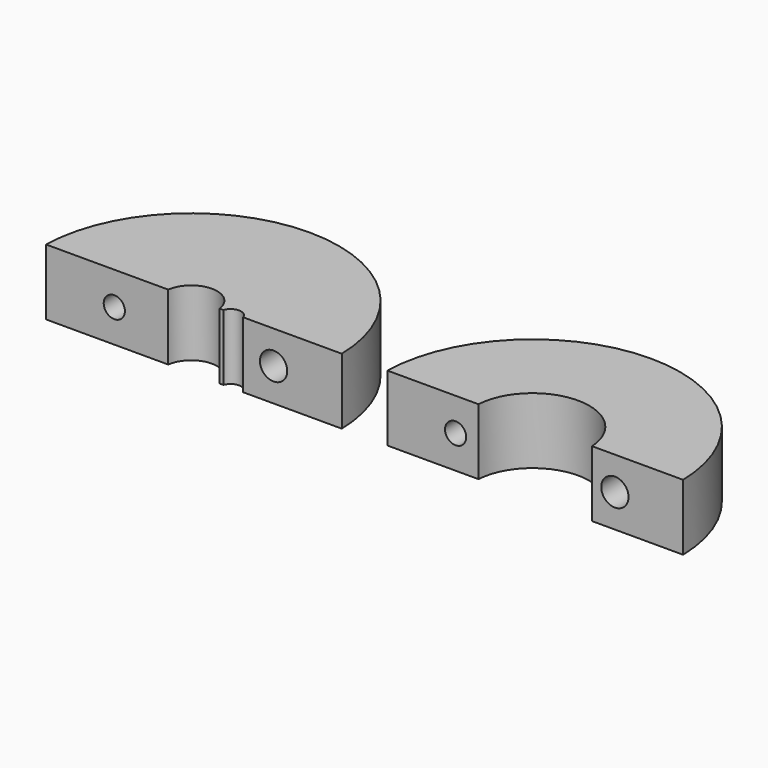
from build123d import *

# Parameters (mm, degrees)
F0_R     = 16.51
F0_R_2   = 2.8956
F0_R_3   = 1.1684
F0_R_4   = 6.35
F1_DEPTH = 7.366
F2_W     = 88.9
F2_H     = 25.781
F3_DEPTH = 25.4
F5_R     = 1.524
F5_R_2   = 1.1811
F6_DEPTH = 25.4
F8_R     = 2.54
F9_DEPTH = 25.4


with BuildPart() as f1:
    # F0 (on Top) → F1 (new body)
    with BuildSketch(Plane.XY):
        with Locations((-38.1, 0)):
            Circle(F0_R)
        with Locations((-38.1, 0)):
            Circle(F0_R_2, mode=Mode.SUBTRACT)
        with Locations((-33.7058, 0)):
            Circle(F0_R_3, mode=Mode.SUBTRACT)
        Circle(F0_R)
        Circle(F0_R_4, mode=Mode.SUBTRACT)
    extrude(amount=F1_DEPTH)

    # F2 (on Top) → F3 (cut)
    with BuildSketch(Plane.XY):
        with Locations((-26.67, -12.5095)):
            Rectangle(F2_W, F2_H)
    extrude(amount=F3_DEPTH, mode=Mode.SUBTRACT)

    # F5 (on offset) → F6 (cut)
    with BuildSketch(Plane.XZ.offset(-25.4)):
        with Locations((8.89, 3.683)):
            Circle(F5_R)
        with Locations((-8.89, 3.683)):
            Circle(F5_R_2)
        with Locations((-46.99, 3.683)):
            Circle(F5_R_2)
        with Locations((-29.21, 3.683)):
            Circle(F5_R)
    extrude(amount=F6_DEPTH, mode=Mode.SUBTRACT)

    # F8 (on offset) → F9 (cut)
    with BuildSketch(Plane.XZ.offset(-6.35)):
        with Locations((8.89, 3.683)):
            Circle(F8_R)
        with Locations((-29.21, 3.683)):
            Circle(F8_R)
    extrude(amount=-F9_DEPTH, mode=Mode.SUBTRACT)


solid = f1.part
